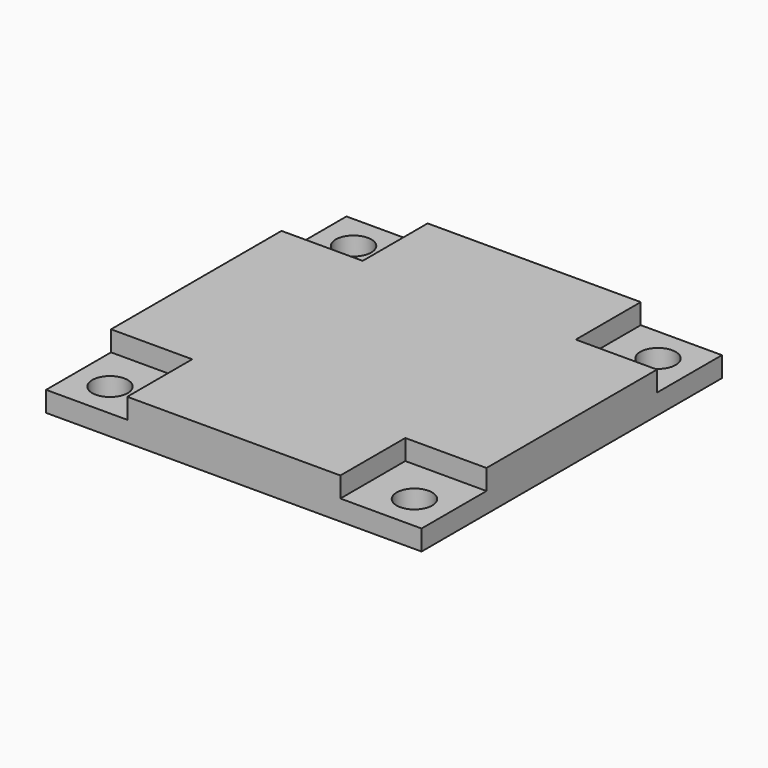
from build123d import *

# Parameters (mm, degrees)
SKETCH_W        = 37
SKETCH_H        = 37
PAD_DEPTH       = 4
SKETCH001_R     = 1.75
POCKET_DEPTH    = 4.001
SKETCH002_W     = 8
SKETCH002_H     = 8
POCKET001_DEPTH = 2


with BuildPart() as part:
    # Sketch → Pad (new body)
    with BuildSketch(Plane.XY):
        Rectangle(SKETCH_W, SKETCH_H)
    extrude(amount=PAD_DEPTH)

    # Sketch001 (on Face6 of Pad) → Pocket (cut, through all)
    with BuildSketch(Plane.XY.offset(4)):
        with Locations((-15, 15)):
            Circle(SKETCH001_R)
        with Locations((15, 15)):
            Circle(SKETCH001_R)
        with Locations((-15, -15)):
            Circle(SKETCH001_R)
        with Locations((15, -15)):
            Circle(SKETCH001_R)
    extrude(amount=-POCKET_DEPTH, mode=Mode.SUBTRACT)

    # Sketch002 (on Face5 of Pocket) → Pocket001 (cut)
    with BuildSketch(Plane.XY.offset(4)):
        with Locations((-14.5, 14.5)):
            Rectangle(SKETCH002_W, SKETCH002_H)
        with Locations((14.5, 14.5)):
            Rectangle(SKETCH002_W, SKETCH002_H)
        with Locations((14.5, -14.5)):
            Rectangle(SKETCH002_W, SKETCH002_H)
        with Locations((-14.5, -14.5)):
            Rectangle(SKETCH002_W, SKETCH002_H)
    extrude(amount=-POCKET001_DEPTH, mode=Mode.SUBTRACT)


solid = part.part
